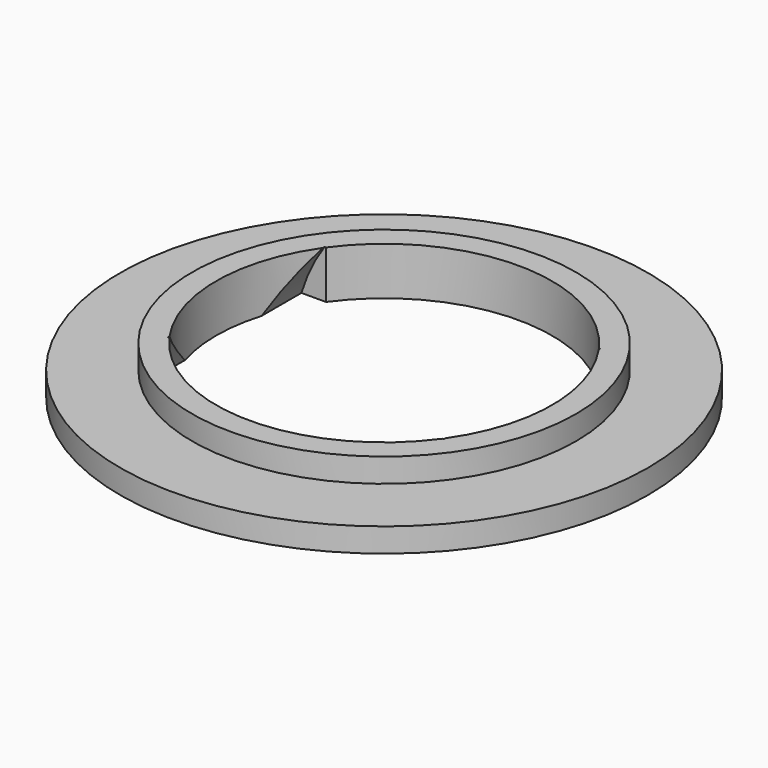
from build123d import *

# Parameters (mm, degrees)
F0_R          = 34.925
F0_R_2        = 25.4
F1_DEPTH      = 3.175
F0_R_3        = 22.225
F2_DEPTH      = 6.35
F3_R          = 22.225
F4_DEPTH      = 12.954
F4_DEPTH_BACK = 12.954


with BuildPart() as f1:
    # F0 (on Top) → F1 (new body)
    with BuildSketch(Plane.XY):
        Circle(F0_R)
        Circle(F0_R_2, mode=Mode.SUBTRACT)
    extrude(amount=F1_DEPTH)

    # F0 (on Top) → F2 (join)
    with BuildSketch(Plane.XY):
        Circle(F0_R_2)
        Circle(F0_R_3, mode=Mode.SUBTRACT)
    extrude(amount=F2_DEPTH)

    # F3 (on Front) → F4 (cut, two sides)
    with BuildSketch(Plane.XZ) as f4_sk:
        with Locations((0, -6.35)):
            Circle(F3_R)
    extrude(amount=-F4_DEPTH, mode=Mode.SUBTRACT)
    extrude(f4_sk.sketch, amount=F4_DEPTH_BACK, mode=Mode.SUBTRACT)


solid = f1.part
